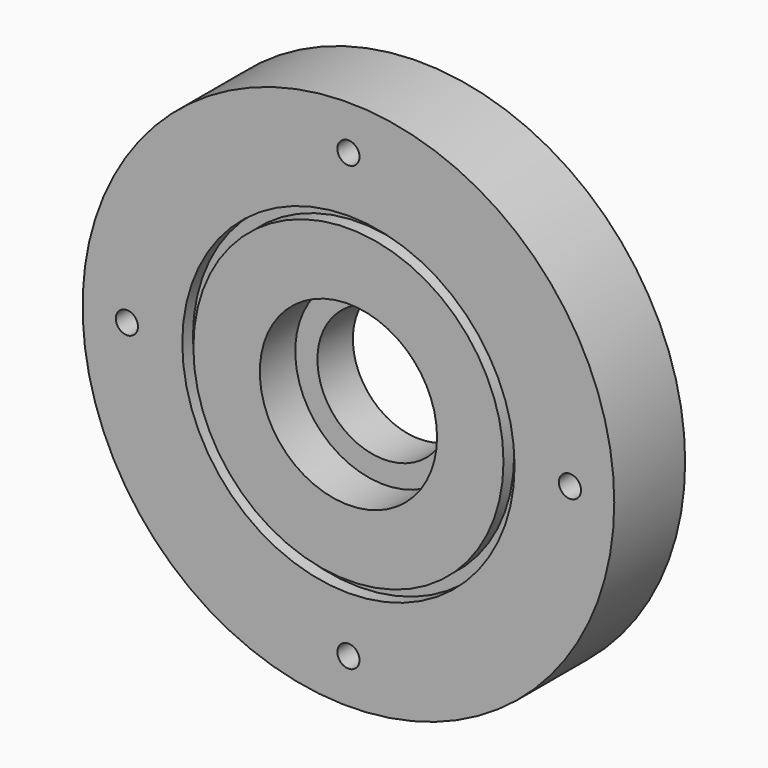
from build123d import *

# Parameters (mm, degrees)
F0_R           = 38.1
F0_R_2         = 9.525
F1_DEPTH       = 12.7
F2_R           = 12.7
F2_R_2         = 9.525
F3_DEPTH       = 6.35
F5_D           = 3.175
F5_CBORE_D     = 6.35
F5_CBORE_DEPTH = 6.35
F6_R           = 23.8125
F6_R_2         = 22.225
F7_DEPTH       = 1.905


with BuildPart() as f1:
    # F0 (on Front) → F1 (new body)
    with BuildSketch(Plane.XZ):
        Circle(F0_R)
        Circle(F0_R_2, mode=Mode.SUBTRACT)
    extrude(amount=F1_DEPTH)

    # F2 (on face) → F3 (cut)
    with BuildSketch(Plane.XZ.offset(12.7)):
        Circle(F2_R)
        Circle(F2_R_2, mode=Mode.SUBTRACT)
    extrude(amount=-F3_DEPTH, mode=Mode.SUBTRACT)

    # F5 (through all)
    with Locations(Plane(origin=(0, 0, 0), x_dir=(-1, 0, 0), z_dir=(0, 1, 0))):
        with Locations((0, 31.75), (-31.75, 0), (0, -31.75), (31.75, 0)):
            CounterBoreHole(F5_D / 2, F5_CBORE_D / 2, F5_CBORE_DEPTH)

    # F6 (on face) → F7 (cut)
    with BuildSketch(Plane.XZ.offset(12.7)):
        Circle(F6_R)
        Circle(F6_R_2, mode=Mode.SUBTRACT)
    extrude(amount=-F7_DEPTH, mode=Mode.SUBTRACT)


solid = f1.part
